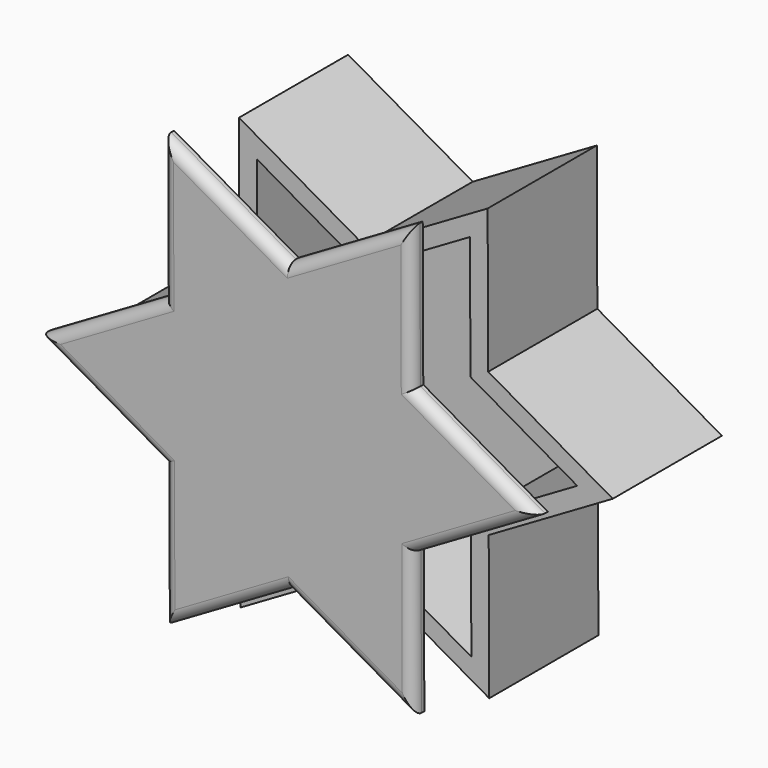
from build123d import *

# Parameters (mm, degrees)
F1_DEPTH = 48.768
F2_T     = -6.35
F5_DEPTH = 5.08
F6_R     = 3.81
F7_R     = 7.149277817
F7_R_2   = 6.167018534
F7_R_3   = 7.300427835
F7_R_4   = 6.3398863897
F7_R_5   = 6.3534148233
F7_R_6   = 5.9967453777
F8_DEPTH = 2.54


with BuildPart() as f1:
    # F0 (on Front) → F1 (new body)
    with BuildSketch(Plane.XZ):
        Polygon((0.1915691198, -51.3121148991), (44.5333795844, -25.4901537252), (44.3418104646, 25.8219611739), (-0.1915691198, 51.3121148991), (-44.5333795844, 25.4901537252), (-44.3418104646, -25.8219611739), align=None)
        Polygon((-0.1915691198, 51.3121148991), (44.3418104646, 25.8219611739), (44.1502413448, 77.134076073), align=None)
        Polygon((44.5333795844, -25.4901537252), (88.875190049, 0.3318074487), (44.3418104646, 25.8219611739), align=None)
        Polygon((44.7249487042, -76.8022686243), (44.5333795844, -25.4901537252), (0.1915691198, -51.3121148991), align=None)
        Polygon((-44.1502413448, -77.134076073), (0.1915691198, -51.3121148991), (-44.3418104646, -25.8219611739), align=None)
        Polygon((-88.875190049, -0.3318074487), (-44.3418104646, -25.8219611739), (-44.5333795844, 25.4901537252), align=None)
        Polygon((-44.5333795844, 25.4901537252), (-0.1915691198, 51.3121148991), (-44.7249487042, 76.8022686243), align=None)
    extrude(amount=F1_DEPTH)

    # F2
    f2_openings = [f1.faces().sort_by_distance(p)[0] for p in [
        (0, -48.768, 0),
    ]]
    offset(amount=F2_T, openings=f2_openings, kind=Kind.INTERSECTION)

    # F7 (on face) → F8 (join)
    with BuildSketch(Plane(origin=(0, 0, 0), x_dir=(-1, 0, 0), z_dir=(0, 1, 0))):
        with Locations((-31.5473228693, 51.052544266)):
            Circle(F7_R)
        with Locations((-62.8226846457, 0)):
            Circle(F7_R_2)
        with Locations((-30.5529385805, -53.0613288283)):
            Circle(F7_R_3)
        with Locations((31.9692417979, 54.6085909009)):
            Circle(F7_R_4)
        with Locations((66.7522624135, 0.3318074487)):
            Circle(F7_R_5)
        with Locations((35.9214060009, -61.9283765554)):
            Circle(F7_R_6)
    extrude(amount=F8_DEPTH)


with BuildPart() as f5:
    # F4 (on offset) → F5 (new body)
    with BuildSketch(Plane.XZ.offset(77.724)):
        Polygon((44.5046442165, -17.7933364903), (88.8464546811, 8.0286246835), (44.3130750966, 33.5187784088), align=None)
        Polygon((44.6962133363, -69.1054513894), (44.5046442165, -17.7933364903), (0.1628337518, -43.6152976642), align=None)
        Polygon((0.1628337518, -43.6152976642), (44.5046442165, -17.7933364903), (44.3130750966, 33.5187784088), (-0.2203044878, 59.008932134), (-44.5621149524, 33.1869709601), (-44.3705458326, -18.125143939), align=None)
        Polygon((-0.2203044878, 59.008932134), (44.3130750966, 33.5187784088), (44.1215059768, 84.8308933078), align=None)
        Polygon((-44.1789767128, -69.4372588381), (0.1628337518, -43.6152976642), (-44.3705458326, -18.125143939), align=None)
        Polygon((-44.5621149524, 33.1869709601), (-0.2203044878, 59.008932134), (-44.7536840722, 84.4990858592), align=None)
        Polygon((-88.903925417, 7.3650097862), (-44.3705458326, -18.125143939), (-44.5621149524, 33.1869709601), align=None)
    extrude(amount=F5_DEPTH)

    # F6
    f6_edges = [f5.edges().sort_by_distance(p)[0] for p in [
        (66.675549, -82.804, -4.882356),
        (66.579765, -82.804, 20.773702),
        (44.217291, -82.804, 59.174836),
        (21.950601, -82.804, 71.919913),
        (-22.486994, -82.804, 71.754009),
        (-44.6579, -82.804, 58.843028),
        (-66.73302, -82.804, 20.27599),
        (-66.637236, -82.804, -5.380067),
        (-44.274761, -82.804, -43.781201),
        (-22.008071, -82.804, -56.526278),
        (22.429524, -82.804, -56.360375),
        (44.600429, -82.804, -43.449394),
    ]]
    fillet(f6_edges, radius=F6_R)


solid = Compound([f1.part, f5.part])
